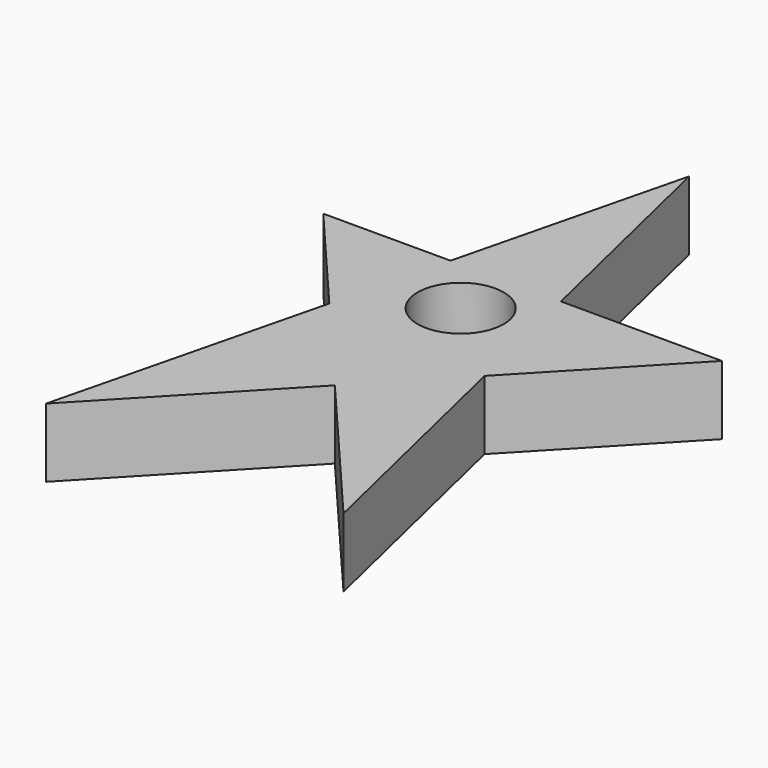
from build123d import *

# Parameters (mm, degrees)
F1_DEPTH = 16.256
F2_R     = 10.1651329975
F3_DEPTH = 25.4


with BuildPart() as f1:
    # F0 (on Top) → F1 (new body)
    with BuildSketch(Plane.XY):
        Polygon((-13.3213598046, 39.5835414529), (-43.3617942035, 39.5835414529), (-20.0858852488, 12.279110417), align=None)
        Polygon((0, 93.3540761471), (-13.3213598046, 39.5835414529), (12.7324047708, 39.5835414529), align=None)
        Polygon((12.7324047708, 39.5835414529), (-13.3213598046, 39.5835414529), (-20.0858852488, 12.279110417), (1.1211013418, -12.5983155931), (20.3098666178, 7.5829742015), align=None)
        Polygon((1.1211013418, -12.5983155931), (-20.0858852488, 12.279110417), (-35.893663764, -51.5276417136), align=None)
        Polygon((50.7366321981, 39.5835414529), (12.7324047708, 39.5835414529), (20.3098666178, 7.5829742015), align=None)
        Polygon((20.3098666178, 7.5829742015), (1.1211013418, -12.5983155931), (34.3067571521, -51.5276417136), align=None)
    extrude(amount=F1_DEPTH)

    # F2 (on face) → F3 (cut)
    with BuildSketch(Plane.XY.offset(16.256)):
        with Locations((0, 25.931325935)):
            Circle(F2_R)
    extrude(amount=-F3_DEPTH, mode=Mode.SUBTRACT)


solid = f1.part
